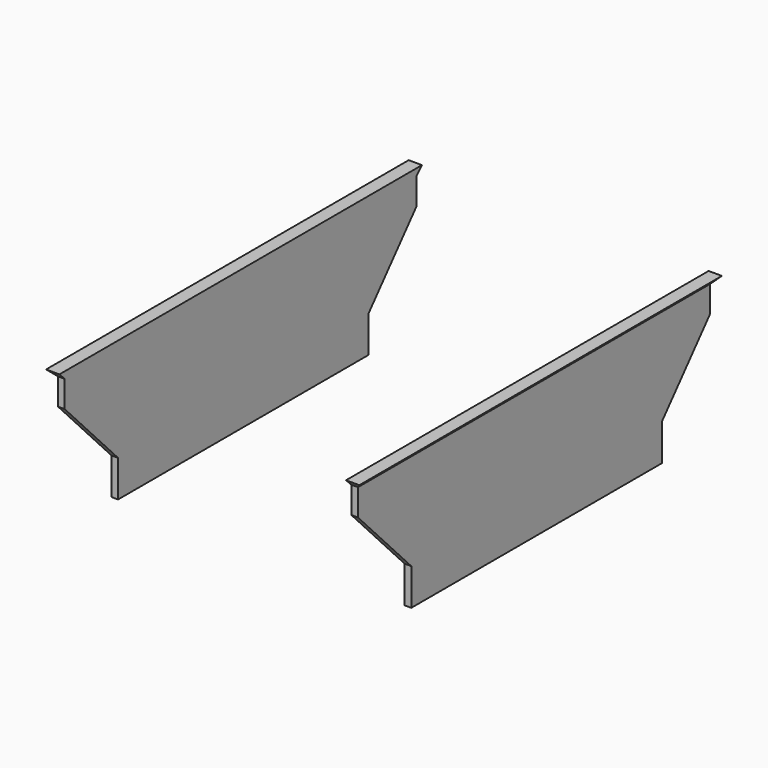
from build123d import *

# Parameters (mm, degrees)
EXTRUDE090_DEPTH = 50
EXTRUDE087_DEPTH = 68


with BuildPart() as extrude090:
    # Sketch099 → Extrude090 (new body)
    with BuildSketch(Plane.YZ.offset(-4)):
        Polygon((17, -23), (19, -25), (19, -29), (29, -39.5), (29, -46), (17, -46), align=None)
        Polygon((76, -46), (76, -39.5), (85, -29), (85, -25), (87, -23), (87, -46), align=None)
    extrude(amount=EXTRUDE090_DEPTH)


with BuildPart() as cut014:
    # Sketch096 → Extrude087 (new body)
    with BuildSketch(Plane.XZ.offset(-18)):
        Polygon((-1, -45), (-1, -24), (-3, -24), (-2, -25), (-2, -45), align=None)
        Polygon((42, -24), (42, -45), (43, -45), (43, -25), (44, -24), align=None)
    extrude(amount=-EXTRUDE087_DEPTH)

    # Cut014: cut Extrude090
    add(extrude090.part, mode=Mode.SUBTRACT)


solid = cut014.part
